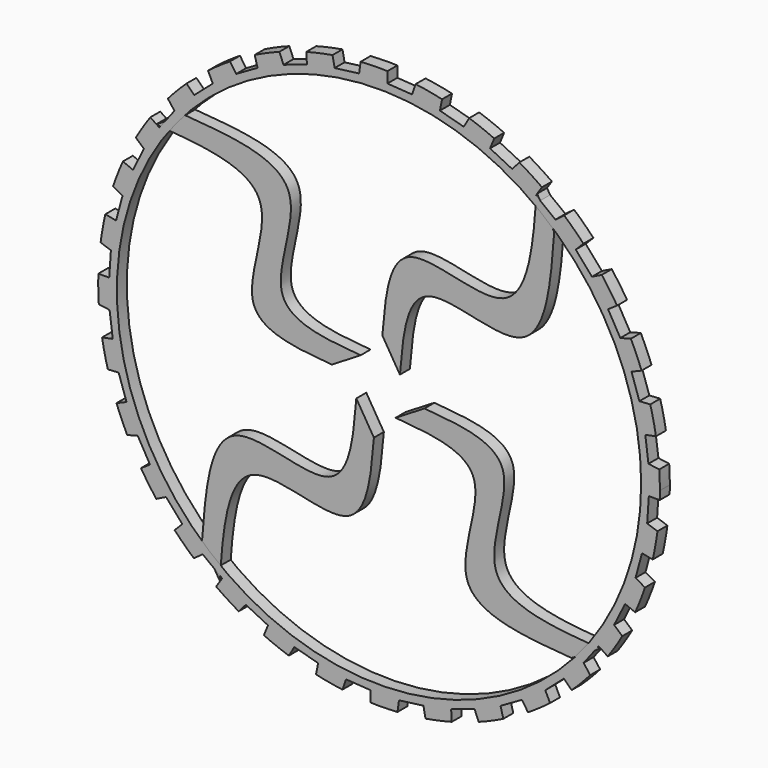
from build123d import *

# Parameters (mm, degrees)
F1_DEPTH = 2.54
F3_COUNT = 4
F4_R     = 53.5497958569
F5_DEPTH = 2.54


with BuildPart() as f1:
    # F0 (on Front) → F1 (new body)
    with BuildSketch(Plane.XZ):
        with BuildLine():
            add(Edge.make_bspline(
                [(10.5000771582, 9.4743575901), (11.0990035038, 16.6772245157), (12.3311505806, 31.4953928795), (39.8767325009, 17.216332124), (41.2857181234, 35.7416840473), (42.0196987689, 45.3920662403)],
                knots=[0, 0, 0, 0, 0.311828294, 0.6415118047, 1, 1, 1, 1], degree=3))
            Line((10.5000771582, 9.4743575901), (14.0910485048, 3.5801339023))
            add(Edge.make_bspline(
                [(14.0910485048, 3.5801339023), (14.6899748505, 10.7830008279), (15.9221219272, 25.6011691917), (43.4677038475, 11.3221084362), (44.87668947, 29.8474603595), (45.6106701155, 39.4978425525)],
                knots=[0, 0, 0, 0, 0.311828294, 0.6415118047, 1, 1, 1, 1], degree=3))
            Line((45.6106701155, 39.4978425525), (42.0196987689, 45.3920662403))
        make_face()
    extrude(amount=F1_DEPTH)


with BuildPart() as f3_1:
    # F3: instance of F1
    add(f1.part.rotate(Axis((9.6391094849, -0.7865317166, 0), (0, 1, 0)), 1 * 360 / F3_COUNT))


with BuildPart() as f3_2:
    # F3: instance of F1
    add(f1.part.rotate(Axis((9.6391094849, -0.7865317166, 0), (0, 1, 0)), 2 * 360 / F3_COUNT))


with BuildPart() as f3_3:
    # F3: instance of F1
    add(f1.part.rotate(Axis((9.6391094849, -0.7865317166, 0), (0, 1, 0)), 3 * 360 / F3_COUNT))


with BuildPart() as f5:
    # F4 (on Front) → F5 (new body)
    with BuildSketch(Plane.XZ):
        with BuildLine():
            ThreePointArc((67.1645015798, -1.7165301518), (67.1837668024, -0.858361172), (67.1901890226, 0))
            ThreePointArc((67.1901890226, 0), (67.1591941515, 1.8854971049), (67.0662430317, 3.7689567152))
            Line((67.0662430317, 3.7689567152), (64.8615220984, 4.0676676731))
            Line((64.8615220984, 4.0676676731), (64.2155009855, 9.0688059619))
            Line((64.2155009855, 9.0688059619), (66.3976154673, 9.5028555193))
            ThreePointArc((66.3976154673, 9.5028555193), (65.8784733368, 12.197267052), (65.2310795304, 14.8637710025))
            Line((65.2310795304, 14.8637710025), (63.0104460746, 14.7266225963))
            Line((63.0104460746, 14.7266225963), (61.4011643971, 19.5056329483))
            Line((61.4011643971, 19.5056329483), (63.4566712931, 20.3570517821))
            ThreePointArc((63.4566712931, 20.3570517821), (62.4218507195, 22.8984113473), (61.2666872892, 25.3873789059))
            Line((61.2666872892, 25.3873789059), (59.1154790093, 24.819641672))
            Line((59.1154790093, 24.819641672), (56.6047805595, 29.1928693993))
            Line((56.6047805595, 29.1928693993), (58.4546878924, 30.4289379613))
            ThreePointArc((58.4546878924, 30.4289379613), (56.94395645, 32.719582536), (55.3254156786, 34.9353640754))
            Line((55.3254156786, 34.9353640754), (53.3263023024, 33.9588558371))
            Line((53.3263023024, 33.9588558371), (50.0106718137, 37.7582402509))
            Line((50.0106718137, 37.7582402509), (51.5838886821, 39.3314571193))
            ThreePointArc((51.5838886821, 39.3314571193), (49.6553029331, 41.2833585173), (47.6355844347, 43.1408027954))
            Line((47.6355844347, 43.1408027954), (45.8653907682, 41.7930502168))
            Line((45.8653907682, 41.7930502168), (41.8722460609, 44.8725831048))
            Line((41.8722460609, 44.8725831048), (43.1083146228, 46.7224904376))
            ThreePointArc((43.1083146228, 46.7224904376), (40.8359890359, 48.2606381828), (38.4927094598, 49.6883646577))
            Line((38.4927094598, 49.6883646577), (37.0194630527, 48.0211611145))
            Line((37.0194630527, 48.0211611145), (32.5022584385, 50.2624977547))
            Line((32.5022584385, 50.2624977547), (33.3536772724, 52.3180046507))
            ThreePointArc((33.3536772724, 52.3180046507), (30.8249360455, 53.3832885877), (28.2481463117, 54.3264305317))
            Line((28.2481463117, 54.3264305317), (27.1284631973, 52.4038457211))
            Line((27.1284631973, 52.4038457211), (22.2607923163, 53.7208528035))
            Line((22.2607923163, 53.7208528035), (22.6948418737, 55.9029672853))
            ThreePointArc((22.6948418737, 55.9029672853), (20.0068631142, 56.4544491499), (17.295587807, 56.8767621469))
            Line((17.295587807, 56.8767621469), (16.5724967795, 54.7726799251))
            Line((16.5724967795, 54.7726799251), (11.5414214937, 55.114745606))
            Line((11.5414214937, 55.114745606), (11.5414214937, 57.3396102379))
            ThreePointArc((11.5414214937, 57.3396102379), (8.7975027177, 57.3560968913), (6.0559346267, 57.2413516898))
            Line((6.0559346267, 57.2413516898), (5.7572236688, 55.0366307565))
            Line((5.7572236688, 55.0366307565), (0.7560853801, 54.3906096436))
            Line((0.7560853801, 54.3906096436), (0.3220358226, 56.5727241254))
            ThreePointArc((0.3220358226, 56.5727241254), (-2.3723757101, 56.0535819949), (-5.0388796606, 55.4061881885))
            Line((-5.0388796606, 55.4061881885), (-4.9017312544, 53.1855547327))
            Line((-4.9017312544, 53.1855547327), (-9.6807416063, 51.5762730552))
            Line((-9.6807416063, 51.5762730552), (-10.5321604402, 53.6317799512))
            ThreePointArc((-10.5321604402, 53.6317799512), (-13.0735200053, 52.5969593775), (-15.562487564, 51.4417959472))
            Line((-15.562487564, 51.4417959472), (-14.99475033, 49.2905876674))
            Line((-14.99475033, 49.2905876674), (-19.3679780574, 46.7798892176))
            Line((-19.3679780574, 46.7798892176), (-20.6040466194, 48.6297965505))
            ThreePointArc((-20.6040466194, 48.6297965505), (-22.8946911941, 47.1190651081), (-25.1104727335, 45.5005243366))
            Line((-25.1104727335, 45.5005243366), (-24.1339644952, 43.5014109605))
            Line((-24.1339644952, 43.5014109605), (-27.933348909, 40.1857804718))
            Line((-27.933348909, 40.1857804718), (-29.5065657774, 41.7589973402))
            ThreePointArc((-29.5065657774, 41.7589973402), (-31.4584671754, 39.8304115912), (-33.3159114535, 37.8106930928))
            Line((-33.3159114535, 37.8106930928), (-31.9681588749, 36.0404994263))
            Line((-31.9681588749, 36.0404994263), (-35.0476917628, 32.047354719))
            Line((-35.0476917628, 32.047354719), (-36.8975990957, 33.2834232809))
            ThreePointArc((-36.8975990957, 33.2834232809), (-38.4357468408, 31.011097694), (-39.8634733157, 28.6678181179))
            Line((-39.8634733157, 28.6678181179), (-38.1962697726, 27.1945717108))
            Line((-38.1962697726, 27.1945717108), (-40.4376064128, 22.6773670966))
            Line((-40.4376064128, 22.6773670966), (-42.4931133088, 23.5287859305))
            ThreePointArc((-42.4931133088, 23.5287859305), (-43.5583972458, 21.0000447036), (-44.5015391897, 18.4232549698))
            Line((-44.5015391897, 18.4232549698), (-42.5789543792, 17.3035718554))
            Line((-42.5789543792, 17.3035718554), (-43.8959614615, 12.4359009744))
            Line((-43.8959614615, 12.4359009744), (-46.0780759434, 12.8699505318))
            ThreePointArc((-46.0780759434, 12.8699505318), (-46.629557808, 10.1819717723), (-47.051870805, 7.470696465))
            Line((-47.051870805, 7.470696465), (-44.9477885832, 6.7476054376))
            Line((-44.9477885832, 6.7476054376), (-45.2898542641, 1.7165301518))
            Line((-45.2898542641, 1.7165301518), (-47.5147188959, 1.7165301518))
            ThreePointArc((-47.5147188959, 1.7165301518), (-47.5312055494, -1.0273886242), (-47.4164603478, -3.7689567152))
            Line((-47.4164603478, -3.7689567152), (-45.2117394145, -4.0676676731))
            Line((-45.2117394145, -4.0676676731), (-44.5657183017, -9.0688059619))
            Line((-44.5657183017, -9.0688059619), (-46.7478327835, -9.5028555193))
            ThreePointArc((-46.7478327835, -9.5028555193), (-46.2286906529, -12.197267052), (-45.5812968465, -14.8637710025))
            Line((-45.5812968465, -14.8637710025), (-43.3606633908, -14.7266225963))
            Line((-43.3606633908, -14.7266225963), (-41.7513817133, -19.5056329483))
            Line((-41.7513817133, -19.5056329483), (-43.8068886093, -20.3570517821))
            ThreePointArc((-43.8068886093, -20.3570517821), (-42.7720680356, -22.8984113473), (-41.6169046053, -25.3873789059))
            Line((-41.6169046053, -25.3873789059), (-39.4656963255, -24.819641672))
            Line((-39.4656963255, -24.819641672), (-36.9549978757, -29.1928693993))
            Line((-36.9549978757, -29.1928693993), (-38.8049052085, -30.4289379613))
            ThreePointArc((-38.8049052085, -30.4289379613), (-37.2941737661, -32.719582536), (-35.6756329947, -34.9353640754))
            Line((-35.6756329947, -34.9353640754), (-33.6765196186, -33.9588558371))
            Line((-33.6765196186, -33.9588558371), (-30.3608891299, -37.7582402509))
            Line((-30.3608891299, -37.7582402509), (-31.9341059983, -39.3314571193))
            ThreePointArc((-31.9341059983, -39.3314571193), (-30.0055202492, -41.2833585173), (-27.9858017509, -43.1408027954))
            Line((-27.9858017509, -43.1408027954), (-26.2156080843, -41.7930502168))
            Line((-26.2156080843, -41.7930502168), (-22.222463377, -44.8725831048))
            Line((-22.222463377, -44.8725831048), (-23.458531939, -46.7224904376))
            ThreePointArc((-23.458531939, -46.7224904376), (-21.186206352, -48.2606381828), (-18.8429267759, -49.6883646577))
            Line((-18.8429267759, -49.6883646577), (-17.3696803689, -48.0211611145))
            Line((-17.3696803689, -48.0211611145), (-12.8524757547, -50.2624977547))
            Line((-12.8524757547, -50.2624977547), (-13.7038945886, -52.3180046507))
            ThreePointArc((-13.7038945886, -52.3180046507), (-11.1751533617, -53.3832885877), (-8.5983636278, -54.3264305317))
            Line((-8.5983636278, -54.3264305317), (-7.4786805135, -52.4038457211))
            Line((-7.4786805135, -52.4038457211), (-2.6110096324, -53.7208528035))
            Line((-2.6110096324, -53.7208528035), (-3.0450591899, -55.9029672853))
            ThreePointArc((-3.0450591899, -55.9029672853), (-0.3570804303, -56.4544491499), (2.3541948769, -56.8767621469))
            Line((2.3541948769, -56.8767621469), (3.0772859043, -54.7726799251))
            Line((3.0772859043, -54.7726799251), (8.1083611901, -55.114745606))
            Line((8.1083611901, -55.114745606), (8.1083611901, -57.3396102379))
            ThreePointArc((8.1083611901, -57.3396102379), (10.8522799661, -57.3560968913), (13.5938480571, -57.2413516898))
            Line((13.5938480571, -57.2413516898), (13.8925590151, -55.0366307565))
            Line((13.8925590151, -55.0366307565), (18.8936973038, -54.3906096436))
            Line((18.8936973038, -54.3906096436), (19.3277468613, -56.5727241254))
            ThreePointArc((19.3277468613, -56.5727241254), (22.0221583939, -56.0535819949), (24.6886623445, -55.4061881885))
            Line((24.6886623445, -55.4061881885), (24.5515139383, -53.1855547327))
            Line((24.5515139383, -53.1855547327), (29.3305242902, -51.5762730552))
            Line((29.3305242902, -51.5762730552), (30.181943124, -53.6317799512))
            ThreePointArc((30.181943124, -53.6317799512), (32.7233026892, -52.5969593775), (35.2122702479, -51.4417959472))
            Line((35.2122702479, -51.4417959472), (34.6445330139, -49.2905876674))
            Line((34.6445330139, -49.2905876674), (39.0177607412, -46.7798892176))
            Line((39.0177607412, -46.7798892176), (40.2538293032, -48.6297965505))
            ThreePointArc((40.2538293032, -48.6297965505), (42.544473878, -47.1190651081), (44.7602554173, -45.5005243366))
            Line((44.7602554173, -45.5005243366), (43.7837471791, -43.5014109605))
            Line((43.7837471791, -43.5014109605), (47.5831315929, -40.1857804718))
            Line((47.5831315929, -40.1857804718), (49.1563484613, -41.7589973402))
            ThreePointArc((49.1563484613, -41.7589973402), (51.1082498592, -39.8304115912), (52.9656941373, -37.8106930928))
            Line((52.9656941373, -37.8106930928), (51.6179415588, -36.0404994263))
            Line((51.6179415588, -36.0404994263), (54.6974744467, -32.047354719))
            Line((54.6974744467, -32.047354719), (56.5473817796, -33.2834232809))
            ThreePointArc((56.5473817796, -33.2834232809), (58.0855295247, -31.011097694), (59.5132559996, -28.6678181179))
            Line((59.5132559996, -28.6678181179), (57.8460524564, -27.1945717108))
            Line((57.8460524564, -27.1945717108), (60.0873890966, -22.6773670966))
            Line((60.0873890966, -22.6773670966), (62.1428959926, -23.5287859305))
            ThreePointArc((62.1428959926, -23.5287859305), (63.2081799296, -21.0000447036), (64.1513218736, -18.4232549698))
            Line((64.1513218736, -18.4232549698), (62.2287370631, -17.3035718554))
            Line((62.2287370631, -17.3035718554), (63.5457441454, -12.4359009744))
            Line((63.5457441454, -12.4359009744), (65.7278586272, -12.8699505318))
            ThreePointArc((65.7278586272, -12.8699505318), (66.2793404918, -10.1819717723), (66.7016534889, -7.470696465))
            Line((66.7016534889, -7.470696465), (64.5975712671, -6.7476054376))
            Line((64.5975712671, -6.7476054376), (64.9396369479, -1.7165301518))
            Line((64.9396369479, -1.7165301518), (67.1645015798, -1.7165301518))
        make_face()
        with Locations((9.8248913419, 0)):
            Circle(F4_R, mode=Mode.SUBTRACT)
    extrude(amount=F5_DEPTH)


solid = Compound([f1.part, f3_1.part, f3_2.part, f3_3.part, f5.part])
